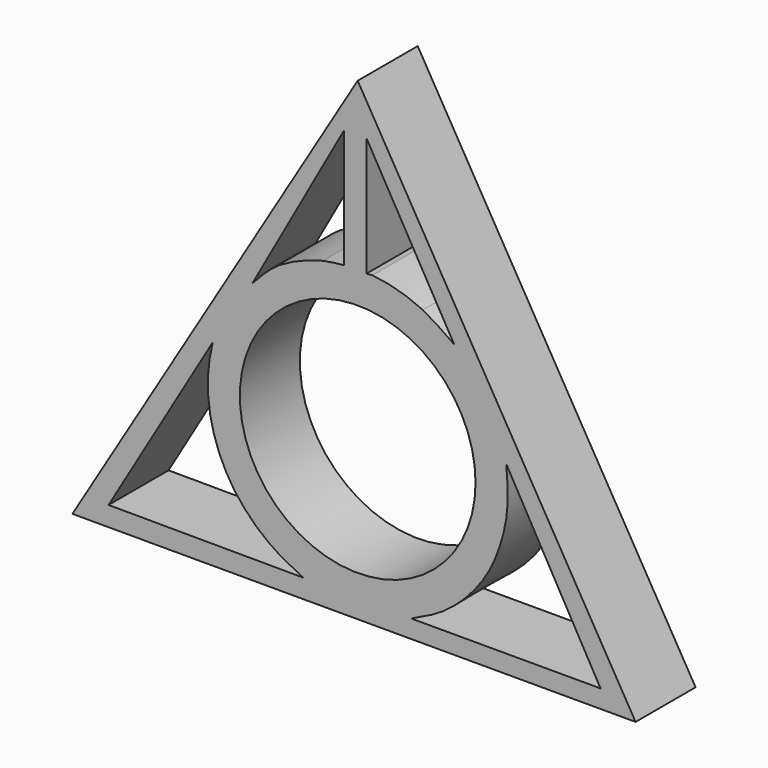
from build123d import *

# Parameters (mm, degrees)
F0_R     = 11.176
F1_DEPTH = 7.112


with BuildPart() as f1:
    # F0 (on Front) → F1 (new body)
    with BuildSketch(Plane.XZ):
        Polygon((26.3571105897, -15.0335971266), (0, 29.9337804317), (-27.0588621497, -15.0335971266), align=None)
        with BuildLine():
            add(Edge.make_bspline(
                [(-23.6297082156, -13.1743811071), (-17.4754069497, -13.1963606303), (-11.3211056838, -13.2183401535), (-5.166804418, -13.2403196767)],
                knots=[0, 0, 0, 0, 18.463021544, 18.463021544, 18.463021544, 18.463021544], degree=3))
            add(Edge.make_bspline(
                [(-23.6297082156, -13.1743811071), (-20.3327611089, -7.5695707928), (-17.0356612007, -1.9648009626), (-13.7387140939, 3.6400093516)],
                knots=[0, 0, 0, 0, 19.5078315354, 19.5078315354, 19.5078315354, 19.5078315354], degree=3))
            ThreePointArc((-13.7387140939, 3.6400093516), (-13.9997309454, -2.4514213205), (-11.6844298654, -8.0917261296))
            add(Edge.make_bspline(
                [(-11.6844298654, -8.0917261296), (-11.4370696812, -8.4383400407), (-10.3915688024, -9.7619842659), (-8.2354147333, -11.7245598175), (-6.1732595153, -12.7431748113), (-5.166804418, -13.2403196767)],
                knots=[0.5641179589, 0.5641179589, 0.5641179589, 0.5641179589, 0.6273463757, 0.818122965, 1, 1, 1, 1], degree=3))
        make_face(mode=Mode.SUBTRACT)
        with BuildLine():
            Line((14.0916705132, 2.5219463278), (23.0309888721, -13.3178960532))
            Line((23.0309888721, -13.3178960532), (5.0739385188, -13.3178960532))
            add(Edge.make_bspline(
                [(5.0739385188, -13.3178960532), (6.1539912069, -12.8260444954), (8.4175048226, -11.7952496921), (11.6128229175, -8.6386974166), (13.3507841899, -5.320472386), (14.3958280316, -1.400103053), (14.1929088966, 1.2164979495), (14.0916705132, 2.5219463278)],
                knots=[0, 0, 0, 0, 0.1927454845, 0.4039451347, 0.5994784149, 0.8001757803, 1, 1, 1, 1], degree=3))
        make_face(mode=Mode.SUBTRACT)
        Circle(F0_R, mode=Mode.SUBTRACT)
        with BuildLine():
            Line((-9.5928109895, 10.4871307017), (-1.2778877281, 25.3940653056))
            Line((-1.2778877281, 25.3940653056), (-1.2778877281, 14.1551734708))
            Line((-1.2778877281, 14.1551734708), (-1.2778877281, 14.1022969037))
            add(Edge.make_bspline(
                [(-3.3056336643, 13.8229779394), (-2.5792008282, 13.9762947183), (-1.9285442781, 14.039295811), (-1.2778877281, 14.1022969037)],
                knots=[0.759346319, 0.759346319, 0.759346319, 0.759346319, 1, 1, 1, 1], degree=3))
            ThreePointArc((-3.3056336643, 13.8229779394), (-5.4544025795, 13.1244590569), (-7.4653239546, 12.0942495132))
            add(Edge.make_bspline(
                [(-9.9819591269, 9.7894687206), (-9.2193993841, 10.6057220246), (-8.4568396412, 11.4219753287), (-7.4653239546, 12.0942495132)],
                knots=[0, 0, 0, 0, 0.3353555796, 0.3353555796, 0.3353555796, 0.3353555796], degree=3))
            Line((-9.9819591269, 9.7894687206), (-9.5928109895, 10.4871307017))
        make_face(mode=Mode.SUBTRACT)
        with BuildLine():
            Line((0.8393191383, 14.1022969037), (0.8393191383, 14.1879341843))
            Line((0.8393191383, 14.1879341843), (0.8393191383, 25.3940653056))
            Line((0.8393191383, 25.3940653056), (9.1513162479, 10.8872791752))
            add(Edge.make_bspline(
                [(9.1513162479, 10.8872791752), (9.1189995521, 10.9099823538), (9.0866828563, 10.9326855324), (9.0543628951, 10.95538432)],
                knots=[0, 0, 0, 0, 0.0115799792, 0.0115799792, 0.0115799792, 0.0115799792], degree=3))
            add(Edge.make_bspline(
                [(9.0543628951, 10.95538432), (8.1229464137, 11.609531914), (7.1888180294, 12.2600326739), (6.1738244637, 12.8017898954)],
                knots=[0.0115799792, 0.0115799792, 0.0115799792, 0.0115799792, 0.345298929, 0.345298929, 0.345298929, 0.345298929], degree=3))
            ThreePointArc((6.1738244637, 12.8017898954), (3.8417456475, 13.6836736082), (1.3914427955, 14.1444625201))
            add(Edge.make_bspline(
                [(1.3914427955, 14.1444625201), (1.2029025965, 14.1346571818), (1.0211108674, 14.1184770427), (0.8393191383, 14.1022969037)],
                knots=[0.9095571723, 0.9095571723, 0.9095571723, 0.9095571723, 1, 1, 1, 1], degree=3))
        make_face(mode=Mode.SUBTRACT)
    extrude(amount=F1_DEPTH)


solid = f1.part
